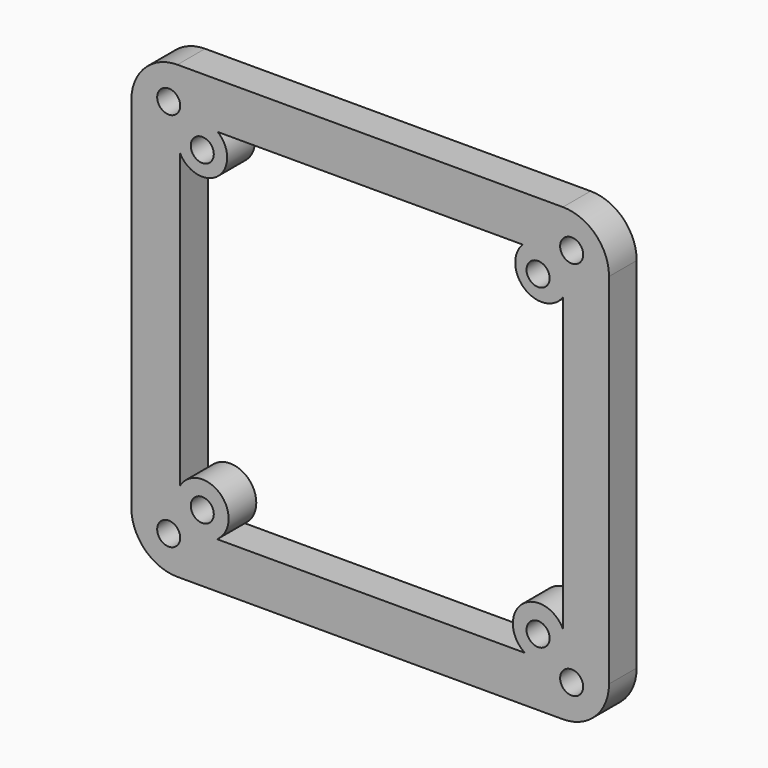
from build123d import *

# Parameters (mm, degrees)
F0_R     = 1
F1_DEPTH = 3


with BuildPart() as f1:
    # F0 (on Front) → F1 (new body)
    with BuildSketch(Plane.XZ):
        with BuildLine():
            Line((16.725494, 19.562819), (-16.725494, 19.562819))
            ThreePointArc((-16.725494, 19.562819), (-19.553921, 18.391246), (-20.725494, 15.562819))
            Line((-20.725494, 15.562819), (-20.725494, -15.562819))
            ThreePointArc((-20.725494, -15.562819), (-19.553921, -18.391246), (-16.725494, -19.562819))
            Line((-16.725494, -19.562819), (16.725494, -19.562819))
            ThreePointArc((16.725494, -19.562819), (19.553921, -18.391246), (20.725494, -15.562819))
            Line((20.725494, -15.562819), (20.725494, 15.562819))
            ThreePointArc((20.725494, 15.562819), (19.553921, 18.391246), (16.725494, 19.562819))
        make_face()
        with Locations((-17.482143, -16.501416)):
            Circle(F0_R, mode=Mode.SUBTRACT)
        with Locations((-14.568453, -13.75118)):
            Circle(F0_R, mode=Mode.SUBTRACT)
        with Locations((17.482143, -16.501416)):
            Circle(F0_R, mode=Mode.SUBTRACT)
        with Locations((14.568453, -13.75118)):
            Circle(F0_R, mode=Mode.SUBTRACT)
        with Locations((-14.568453, 13.75118)):
            Circle(F0_R, mode=Mode.SUBTRACT)
        with Locations((-17.482143, 16.501416)):
            Circle(F0_R, mode=Mode.SUBTRACT)
        with BuildLine():
            ThreePointArc((-16.487763, 12.866315), (-13.192145, 12.200859), (-13.22615, 15.562819))
            Line((-13.22615, 15.562819), (13.222963, 15.562819))
            ThreePointArc((13.222963, 15.562819), (13.41642, 12.229833), (16.725494, 12.672836))
            Line((16.725494, 12.672836), (16.725494, -12.672836))
            ThreePointArc((16.725494, -12.672836), (13.163272, -11.933499), (13.41642, -15.562819))
            Line((13.41642, -15.562819), (-13.29066, -15.562819))
            ThreePointArc((-13.29066, -15.562819), (-12.980077, -12.039182), (-16.487763, -12.495928))
            Line((-16.487763, -12.495928), (-16.487763, 12.866315))
        make_face(mode=Mode.SUBTRACT)
        with Locations((14.568453, 13.75118)):
            Circle(F0_R, mode=Mode.SUBTRACT)
        with Locations((17.482143, 16.501416)):
            Circle(F0_R, mode=Mode.SUBTRACT)
    extrude(amount=F1_DEPTH)


solid = f1.part
